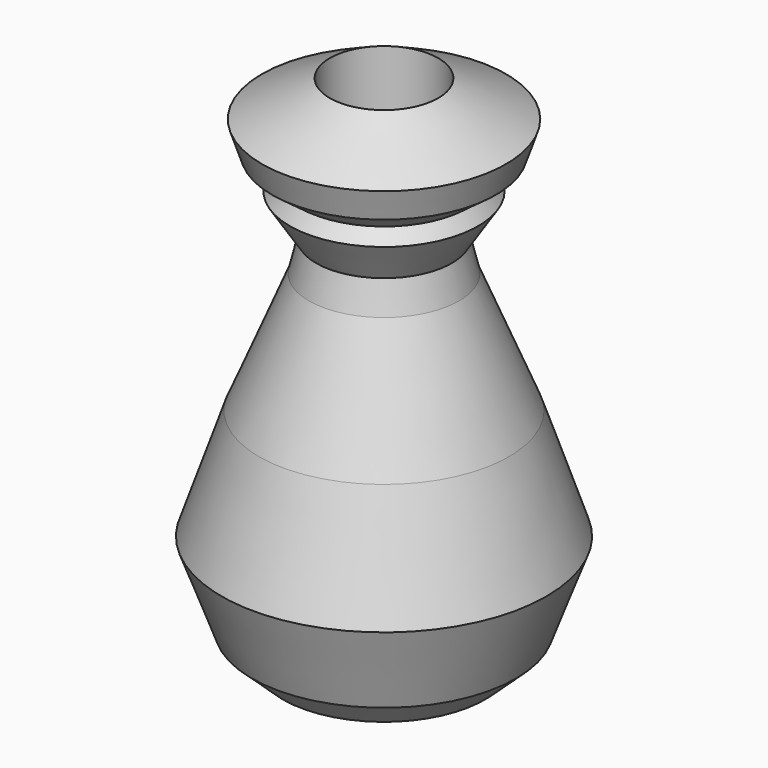
from build123d import *

# Parameters (mm, degrees)
F2_R     = 14.973683
F3_DEPTH = 88.392
F4_DEPTH = 68.58


with BuildPart() as f1:
    # F0 (on Front) → F1 (revolve)
    with BuildSketch(Plane.XZ):
        Polygon((0, -79.605266), (0, 70.394734), (-33.717105, 52.467106), (-30.921052, 44.078944), (-23.355263, 38.486842), (-26.014588, 34.888929), (-18.749999, 23.519738), (-20.723683, 14.967105), (-34.539474, -18.421052), (-44.901316, -49.01316), (-36.513158, -71.710529), (-27.960526, -79.605266), align=None)
    revolve(axis=Axis((0, 0, -4.605266), (0, 0, -1)))

    # F2 (on Top) → F3 (cut)
    with BuildSketch(Plane.XY):
        Circle(F2_R)
    extrude(amount=F3_DEPTH, mode=Mode.SUBTRACT)

    # F2 (on Top) → F4 (cut)
    with BuildSketch(Plane.XY):
        Circle(F2_R)
    extrude(amount=-F4_DEPTH, mode=Mode.SUBTRACT)


solid = f1.part
